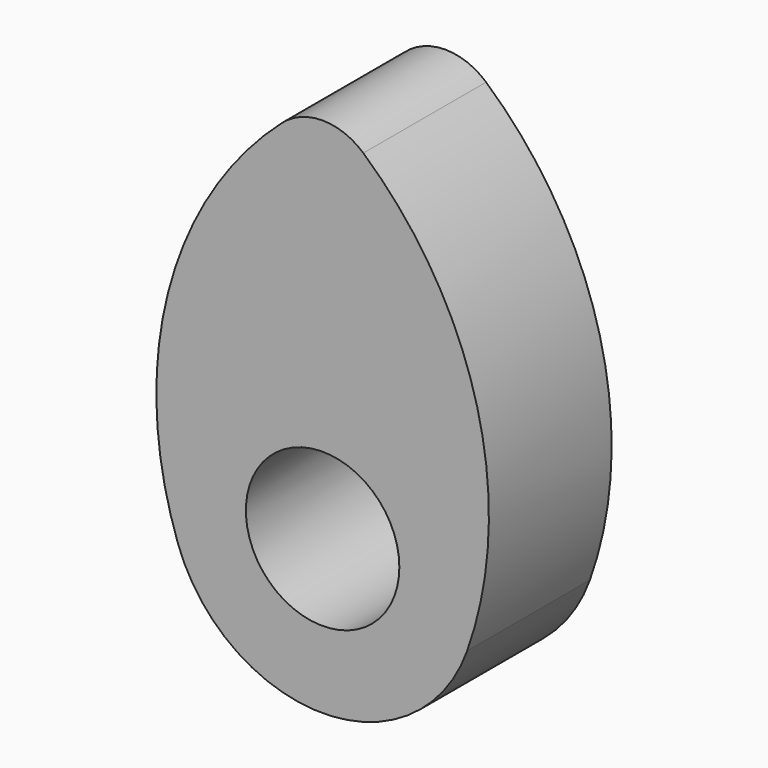
from build123d import *

# Parameters (mm, degrees)
F0_R     = 127
F1_DEPTH = 254


with BuildPart() as f1:
    # F0 (on Front) → F1 (new body)
    with BuildSketch(Plane.XZ):
        with BuildLine():
            ThreePointArc((-67.381811, 488.046716), (-255.836745, 179.580877), (-239.170642, -181.512845))
            ThreePointArc((-239.170642, -181.512845), (0, -349.994402), (239.170642, -181.512845))
            ThreePointArc((239.170642, -181.512845), (255.836745, 179.580877), (67.381811, 488.046716))
            ThreePointArc((67.381811, 488.046716), (0, 513.605598), (-67.381811, 488.046716))
        make_face()
        with Locations((0, -95.994402)):
            Circle(F0_R, mode=Mode.SUBTRACT)
    extrude(amount=F1_DEPTH)


solid = f1.part
